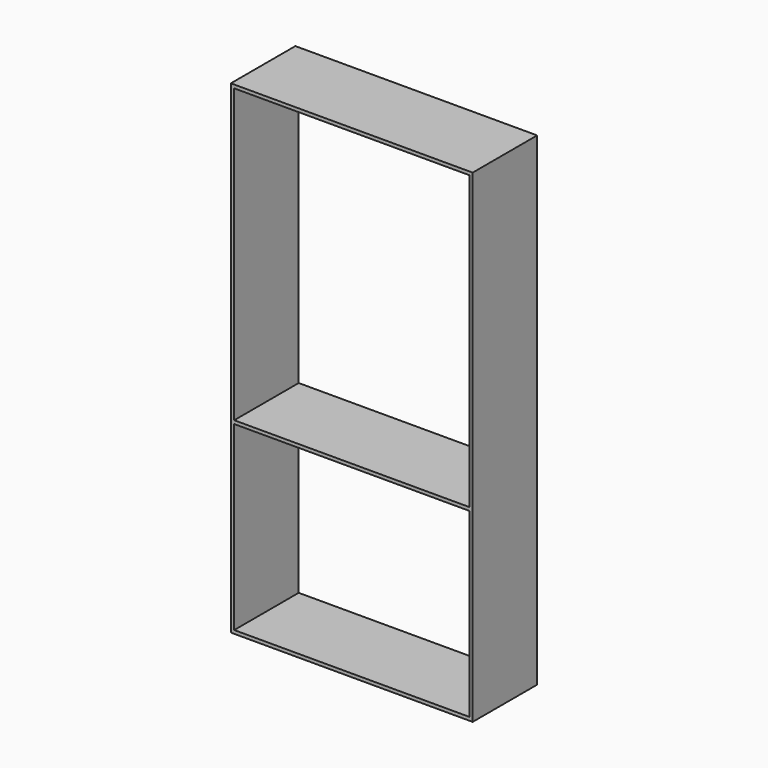
from build123d import *

# Parameters (mm, degrees)
F0_W     = 889
F0_H     = 12.7
F1_DEPTH = 304.8


with BuildPart() as f1:
    # F0 (on Front) → F1 (new body)
    with BuildSketch(Plane.XZ):
        with Locations((-161.960473, 895.35)):
            Rectangle(F0_W, F0_H)
        Polygon((-606.460473, 889), (-606.460473, 901.7), (-619.160473, 901.7), (-619.160473, -927.1), (-606.460473, -927.1), (-606.460473, -914.4), (-606.460473, -609.6), (-606.460473, -596.9), (-606.460473, -419.1), (-606.460473, -406.4), (-606.460473, -228.6), (-606.460473, -215.9), (-606.460473, -63.5), (-606.460473, -50.8), (-606.460473, 76.2), (-606.460473, 88.9), (-606.460473, 215.9), (-606.460473, 228.6), (-606.460473, 304.8), (-606.460473, 317.5), (-606.460473, 393.7), (-606.460473, 406.4), (-606.460473, 469.9), (-606.460473, 482.6), align=None)
        Polygon((295.239527, 901.7), (282.539527, 901.7), (282.539527, 889), (282.539527, 482.6), (282.539527, 469.9), (282.539527, -215.9), (282.539527, -228.6), (282.539527, -406.4), (282.539527, -419.1), (282.539527, -596.9), (282.539527, -609.6), (282.539527, -914.4), (282.539527, -927.1), (295.239527, -927.1), align=None)
        with Locations((-161.960473, -920.75)):
            Rectangle(F0_W, F0_H)
        Polygon((282.539527, -228.6), (282.539527, -215.9), (257.139527, -215.9), (-200.060473, -215.9), (-225.460473, -215.9), (-238.160473, -215.9), (-606.460473, -215.9), (-606.460473, -228.6), align=None)
    extrude(amount=F1_DEPTH)


solid = f1.part
